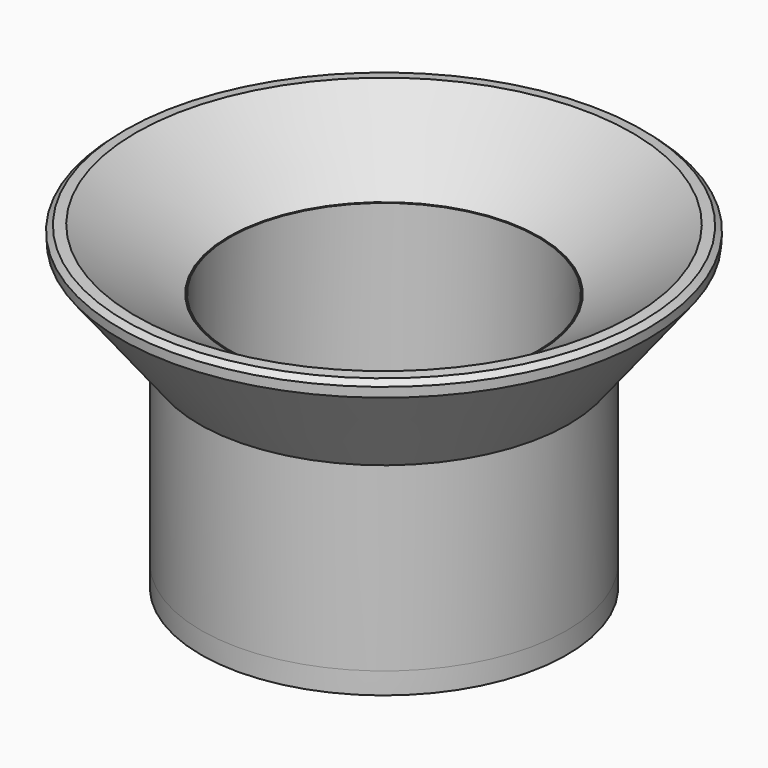
from build123d import *

# Parameters (mm, degrees)
SKETCH_R             = 8.5
SKETCH_R_2           = 7.15
PAD_DEPTH            = 11
REVOLUTION_FACE2_R   = 8.5
REVOLUTION_FACE2_R_2 = 7.15
PAD001_DEPTH         = 1


with BuildPart() as part:
    # Sketch → Pad (new body)
    with BuildSketch(Plane.XY):
        Circle(SKETCH_R)
        Circle(SKETCH_R_2, mode=Mode.SUBTRACT)
    extrude(amount=PAD_DEPTH)

    # Sketch001 → Revolution (revolve)
    with BuildSketch(Plane.XZ):
        Polygon((7.154231, 10.959348), (11.531741, 13.844253), (12.016494, 13.802702), (12.265796, 13.5811), (12.238096, 13.124048), (8.581674, 8.456569), align=None)
    revolve(axis=Axis((0, 0, 0), (0, 0, 1)))

    # Revolution Face2 → Pad001 (add)
    with BuildSketch(Plane(origin=(0, 0, 0), x_dir=(0, -1, 0), z_dir=(0, 0, -1))):
        Circle(REVOLUTION_FACE2_R)
        Circle(REVOLUTION_FACE2_R_2, mode=Mode.SUBTRACT)
    extrude(amount=PAD001_DEPTH)


solid = part.part
